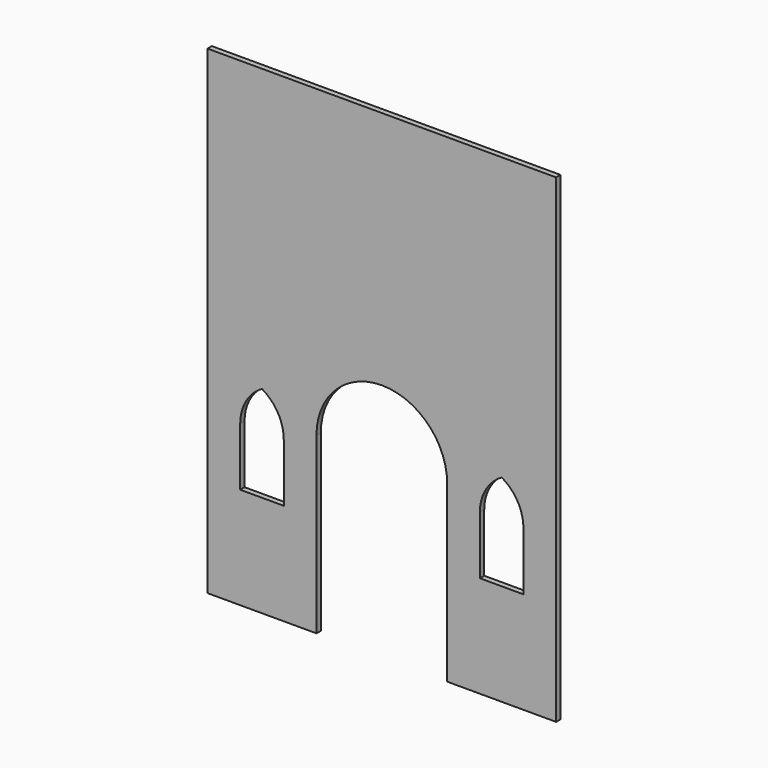
from build123d import *

# Parameters (mm, degrees)
F0_W     = 1219.2
F0_H     = 1676.4
F1_DEPTH = 19.05
F3_DEPTH = 19.051
F5_DEPTH = 19.051


with BuildPart() as f1:
    # F0 (on Front) → F1 (new body)
    with BuildSketch(Plane.XZ):
        Rectangle(F0_W, F0_H)
    extrude(amount=F1_DEPTH)

    # F2 (on face) → F3 (cut, through all)
    with BuildSketch(Plane.XZ.offset(19.05)):
        with BuildLine():
            Line((-228.6, -228.6), (-228.6, -838.2))
            Line((-228.6, -838.2), (228.6, -838.2))
            Line((228.6, -838.2), (228.6, -228.6))
            ThreePointArc((228.6, -228.6), (0, 0), (-228.6, -228.6))
        make_face()
    extrude(amount=-F3_DEPTH, mode=Mode.SUBTRACT)

    # F4 (on face) → F5 (cut, through all)
    with BuildSketch(Plane.XZ.offset(19.05)):
        with BuildLine():
            Line((-495.3, -482.6), (-342.9, -482.6))
            Line((-342.9, -482.6), (-342.9, -279.4))
            ThreePointArc((-342.9, -279.4), (-363.317728, -203.2), (-419.1, -147.417728))
            ThreePointArc((-419.1, -147.417728), (-474.882272, -203.2), (-495.3, -279.4))
            Line((-495.3, -279.4), (-495.3, -482.6))
        make_face()
        with BuildLine():
            ThreePointArc((419.1, -147.417728), (363.317728, -203.2), (342.9, -279.4))
            Line((342.9, -279.4), (342.9, -482.6))
            Line((342.9, -482.6), (495.3, -482.6))
            Line((495.3, -482.6), (495.3, -279.4))
            ThreePointArc((495.3, -279.4), (474.882272, -203.2), (419.1, -147.417728))
        make_face()
    extrude(amount=-F5_DEPTH, mode=Mode.SUBTRACT)


solid = f1.part
